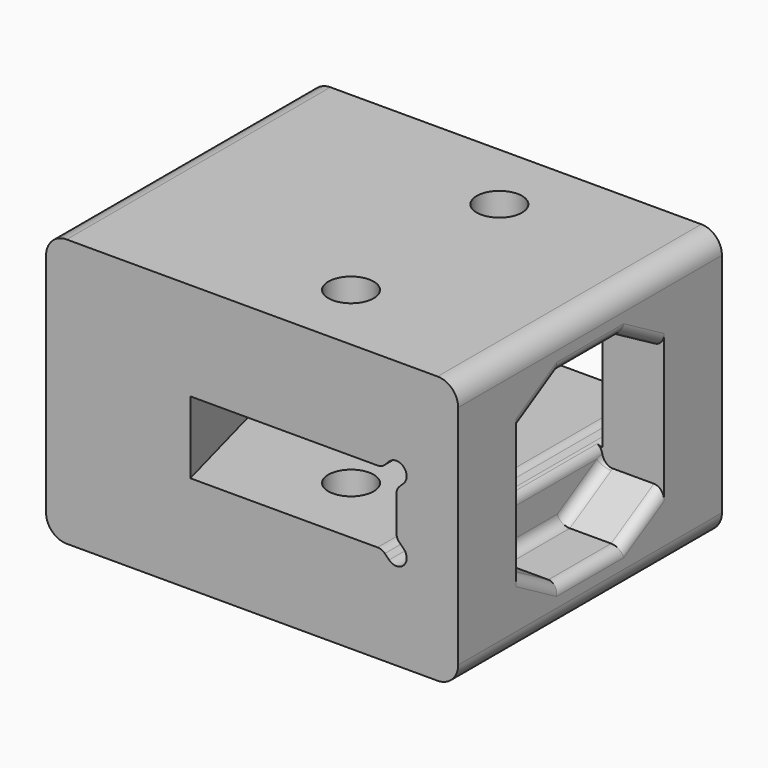
from build123d import *

# Parameters (mm, degrees)
SKETCH_W        = 20
SKETCH_H        = 16
PAD_DEPTH       = 6.5
POCKET_DEPTH    = 1.75
POCKET002_DEPTH = 16.001
FILLET_R        = 0.5
SKETCH004_R     = 1.1
POCKET003_DEPTH = 8
SKETCH005_R     = 1.35
POCKET004_DEPTH = 7
SKETCH006_W     = 9
SKETCH006_H     = 9
POCKET005_DEPTH = 3
CHAMFER_1_ANGLE = 60
CHAMFER_1_SIZE  = 1.5
CHAMFER_2_ANGLE = 60
CHAMFER_2_SIZE  = 1.5
FILLET001_R     = 0.5
FILLET002_R     = 0.5
FILLET003_R     = 1
FILLET004_R     = 0.5
SKETCH007_W     = 2
SKETCH007_H     = 5
PAD001_DEPTH    = 0.2


with BuildPart() as part:
    # Sketch (on XY_Plane of Origin) → Pad (new body, symmetric)
    with BuildSketch(Plane.XY):
        Rectangle(SKETCH_W, SKETCH_H)
    extrude(amount=PAD_DEPTH, both=True)

    # Sketch001 → Pocket (cut, symmetric)
    with BuildSketch(Plane.XY):
        Polygon((-7.287187, 8), (-3, -8), (7, -8), (7, 8), align=None)
    extrude(amount=POCKET_DEPTH, both=True, mode=Mode.SUBTRACT)

    # Sketch003 (on Face1 of Pocket) → Pocket002 (cut, through all)
    with BuildSketch(Plane.XZ.offset(8)):
        with BuildLine():
            ThreePointArc((6.646447, -2.103553), (7.353553, -2.103553), (7.353553, -1.396447))
            Line((7.353553, -1.396447), (6.646447, -0.68934))
            ThreePointArc((6.646447, -0.68934), (5.93934, -0.68934), (5.93934, -1.396447))
            Line((6.646447, -2.103553), (5.93934, -1.396447))
        make_face()
        with BuildLine():
            ThreePointArc((7.353553, 1.396447), (7.353553, 2.103553), (6.646447, 2.103553))
            Line((6.646447, 2.103553), (5.93934, 1.396447))
            ThreePointArc((5.93934, 1.396447), (5.93934, 0.68934), (6.646447, 0.68934))
            Line((7.353553, 1.396447), (6.646447, 0.68934))
        make_face()
    extrude(amount=-POCKET002_DEPTH, mode=Mode.SUBTRACT)

    # Fillet
    fillet_edges = [part.edges().sort_by_distance(p)[0] for p in [
        (6.292893, 0, -1.75),
        (6.292893, 0, 1.75),
        (7, 0, -1.042893),
        (7, 0, 1.042893),
    ]]
    fillet(fillet_edges, radius=FILLET_R)

    # Sketch004 (on XY_Plane of Origin) → Pocket003 (cut, symmetric)
    with BuildSketch(Plane.XY):
        with Locations((2, 4.5)):
            Circle(SKETCH004_R)
        with Locations((2, -4.5)):
            Circle(SKETCH004_R)
    extrude(amount=POCKET003_DEPTH, both=True, mode=Mode.SUBTRACT)

    # Sketch005 (on Face16 of Pocket003) → Pocket004 (cut)
    with BuildSketch(Plane(origin=(-10, 0, 0), x_dir=(0, -1, 0), z_dir=(-1, 0, 0))):
        Circle(SKETCH005_R)
    extrude(amount=-POCKET004_DEPTH, mode=Mode.SUBTRACT)

    # Sketch006 (on Face19 of Pocket004) → Pocket005 (cut)
    with BuildSketch(Plane.YZ.offset(10)):
        Rectangle(SKETCH006_W, SKETCH006_H)
    extrude(amount=-POCKET005_DEPTH, mode=Mode.SUBTRACT)

    # Chamfer 1
    chamfer_1_edges = [part.edges().sort_by_distance(p)[0] for p in [
        (8.5, 4.5, -4.5),
        (8.5, 4.5, 4.5),
    ]]
    chamfer_1_side = part.faces().sort_by_distance((8.542167, 4.5, 0))[0]
    chamfer(chamfer_1_edges, length=CHAMFER_1_SIZE, angle=CHAMFER_1_ANGLE, reference=chamfer_1_side)

    # Chamfer 2
    chamfer_2_edges = [part.edges().sort_by_distance(p)[0] for p in [
        (8.5, -4.5, -4.5),
        (8.5, -4.5, 4.5),
    ]]
    chamfer_2_side = part.faces().sort_by_distance((8.542167, -4.5, 0))[0]
    chamfer(chamfer_2_edges, length=CHAMFER_2_SIZE, angle=CHAMFER_2_ANGLE, reference=chamfer_2_side)

    # Fillet001
    fillet001_edges = [part.edges().sort_by_distance(p)[0] for p in [
        (7, 0, 2.25),
        (7, 0, -2.25),
    ]]
    fillet(fillet001_edges, radius=FILLET001_R)

    # Fillet002
    fillet002_edges = [part.edges().sort_by_distance(p)[0] for p in [
        (7, -3.200962, -3.75),
        (7, 0, -4.5),
        (7, 3.200962, -3.75),
        (7, -3.200962, 3.75),
        (7, 0, 4.5),
        (7, 3.200962, 3.75),
    ]]
    fillet(fillet002_edges, radius=FILLET002_R)

    # Fillet003
    fillet003_edges = [part.edges().sort_by_distance(p)[0] for p in [
        (10, 0, 6.5),
        (-10, 0, 6.5),
        (-10, 0, -6.5),
        (10, 0, -6.5),
    ]]
    fillet(fillet003_edges, radius=FILLET003_R)

    # Fillet004
    fillet004_edges = [part.edges().sort_by_distance(p)[0] for p in [
        (10, -3.200962, -3.75),
        (10, 0, -4.5),
        (10, 3.200962, -3.75),
        (10, 3.200962, 3.75),
        (10, 0, 4.5),
        (10, -3.200962, 3.75),
    ]]
    fillet(fillet004_edges, radius=FILLET004_R)

    # Sketch007 (on Face8 of Fillet004) → Pad001 (join)
    with BuildSketch(Plane.XZ.offset(-4.5)):
        with Locations((8, 0)):
            Rectangle(SKETCH007_W, SKETCH007_H)
    extrude(amount=-PAD001_DEPTH)


solid = part.part
